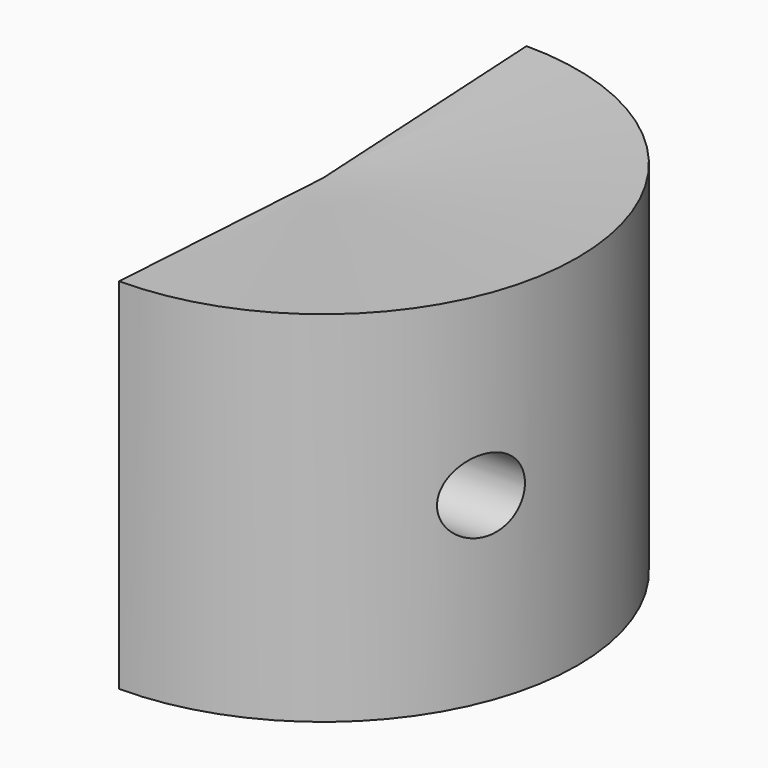
from build123d import *

# Parameters (mm, degrees)
F1_ANGLE = 180
F2_ANGLE = 180
F3_R     = 28
F4_DEPTH = 250


with BuildPart() as f1:
    # F0 (on Right) → F1 (revolve)
    with BuildSketch(Plane.YZ):
        Polygon((0, 125.701755), (-195, 135.469316), (-195, -139.430394), (0, -171.431184), (0, -92.728153), (0, 0), align=None)
    revolve(axis=Axis((0, 0, 62.850878), (0, 0, 1)), revolution_arc=F1_ANGLE)


with BuildPart() as f2:
    # F0 (on Right) → F2 (revolve)
    with BuildSketch(Plane.YZ):
        Polygon((0, 125.701755), (-195, 135.469316), (-195, -139.430394), (0, -171.431184), (0, -92.728153), (0, 0), align=None)
    revolve(axis=Axis((0, 0, 62.850878), (0, 0, 1)), revolution_arc=F2_ANGLE)


with BuildPart() as f4:
    # F3 (on Right) → F4 (new body, symmetric)
    with BuildSketch(Plane.YZ):
        with Locations((-71.995, 0)):
            Circle(F3_R)
    extrude(amount=F4_DEPTH, both=True)


with BuildPart() as f2_1:
    add(f2.part)

    # F5: cut F4
    add(f4.part, mode=Mode.SUBTRACT)


with BuildPart() as f1_1:
    add(f1.part)

    # F6: cut F4
    add(f4.part, mode=Mode.SUBTRACT)


solid = Compound([f2_1.part, f1_1.part])
